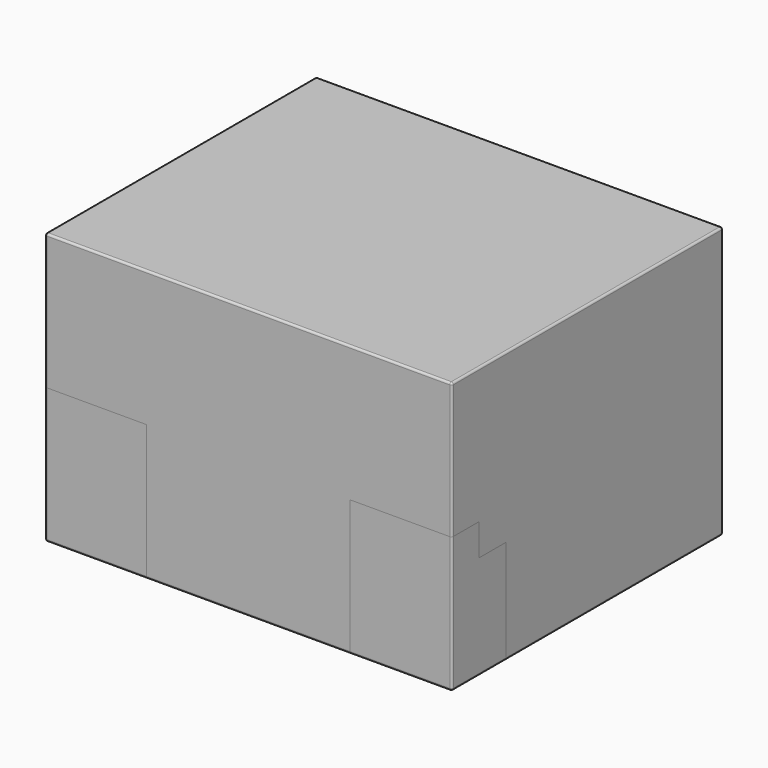
from build123d import *

# Parameters (mm, degrees)
F0_W      = 304.8
F0_H      = 254
F1_DEPTH  = 101.6
F2_W      = 76.2
F2_H      = 101.6
F3_DEPTH  = 25.4
F4_DEPTH  = 25.4
F5_R      = 1.524
F5_2_R    = 1.524
F5_3_R    = 1.524
F6_W      = 76.2
F6_H      = 25.4
F7_DEPTH  = 25.4
F8_DEPTH  = 25.4
F9_W      = 76.2
F9_H      = 25.4
F10_DEPTH = 25.4
F11_DEPTH = 25.4
F12_ANGLE = -90


with BuildPart() as f1:
    # F0 (on Front) → F1 (new body, symmetric)
    with BuildSketch(Plane.XZ):
        Rectangle(F0_W, F0_H)
    extrude(amount=F1_DEPTH, both=True)

    # F2 (on face) → F3 (cut)
    with BuildSketch(Plane(origin=(0, 0, -127), x_dir=(1, 0, 0), z_dir=(0, 0, -1))):
        with Locations((114.3, -50.8)):
            Rectangle(F2_W, F2_H)
        with Locations((-114.3, -50.8)):
            Rectangle(F2_W, F2_H)
    extrude(amount=-F3_DEPTH, mode=Mode.SUBTRACT)


with BuildPart() as f4:
    # F4 (new): a face of the model
    f4_faces = [f1.part.faces().sort_by_distance(p)[0] for p in [
        (114.3, 50.8, -101.6),
    ]]
    extrude(f4_faces, amount=F4_DEPTH)

    # F5#2
    f5_2_edges = [f4.edges().sort_by_distance(p)[0] for p in [
        (152.4, 101.6, -114.3),
        (114.3, 101.6, -127),
        (152.4, 50.8, -127),
    ]]
    fillet(f5_2_edges, radius=F5_2_R)



with BuildPart() as f4b:
    # F4#2 (new): a face of the model
    f4_2_faces = [f1.part.faces().sort_by_distance(p)[0] for p in [
        (-114.3, 50.8, -101.6),
    ]]
    extrude(f4_2_faces, amount=F4_DEPTH)

    # F5#3
    f5_3_edges = [f4b.edges().sort_by_distance(p)[0] for p in [
        (-152.4, 101.6, -114.3),
        (-152.4, 50.8, -127),
        (-114.3, 101.6, -127),
    ]]
    fillet(f5_3_edges, radius=F5_3_R)



with BuildPart() as f1_1:
    add(f1.part)

    # F5
    f5_edges = [f1_1.edges().sort_by_distance(p)[0] for p in [
        (152.4, -101.6, 0),
        (0, -101.6, 127),
        (-152.4, -101.6, 0),
        (0, -101.6, -127),
        (152.4, 0, 127),
        (0, 101.6, 127),
        (-152.4, 0, 127),
        (152.4, 101.6, 12.7),
        (-152.4, 101.6, 12.7),
        (-152.4, -50.8, -127),
        (0, 101.6, -127),
        (152.4, -50.8, -127),
    ]]
    fillet(f5_edges, radius=F5_R)

    # F6 (on face) → F7 (cut)
    with BuildSketch(Plane.YZ.offset(152.4)):
        with Locations((61.976, -88.9)):
            Rectangle(F6_W, F6_H)
    extrude(amount=-F7_DEPTH, mode=Mode.SUBTRACT)


with BuildPart() as f4_1:
    add(f4.part)
    # F8 (add): a face of the model
    f8_faces = [f1_1.part.faces().sort_by_distance(p)[0] for p in [
        (127, 61.976, -88.9),
    ]]
    extrude(f8_faces, amount=F8_DEPTH)


with BuildPart() as f1_2:
    add(f1_1.part)

    # F9 (on face) → F10 (cut)
    with BuildSketch(Plane(origin=(-152.4, 0, 0), x_dir=(0, -1, 0), z_dir=(-1, 0, 0))):
        with Locations((-61.976, -88.9)):
            Rectangle(F9_W, F9_H)
    extrude(amount=-F10_DEPTH, mode=Mode.SUBTRACT)


with BuildPart() as f4b_1:
    add(f4b.part)
    # F11 (add): a face of the model
    f11_faces = [f1_2.part.faces().sort_by_distance(p)[0] for p in [
        (-127, 61.976, -88.9),
    ]]
    extrude(f11_faces, amount=F11_DEPTH)


with BuildPart() as f4_2:
    # F12: moved
    add(f4_1.part.rotate(Axis((0, 0, 0), (1, 0, 0)), F12_ANGLE))


with BuildPart() as f4b_2:
    # F12: moved
    add(f4b_1.part.rotate(Axis((0, 0, 0), (1, 0, 0)), F12_ANGLE))


with BuildPart() as f1_3:
    # F12: moved
    add(f1_2.part.rotate(Axis((0, 0, 0), (1, 0, 0)), F12_ANGLE))


solid = Compound([f4_2.part, f4b_2.part, f1_3.part])
